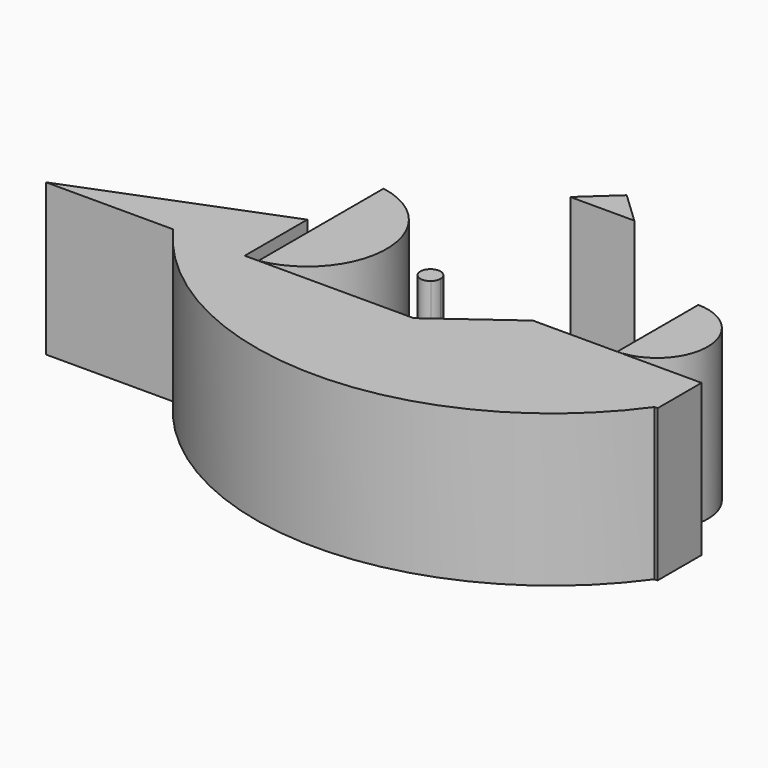
from build123d import *

# Parameters (mm, degrees)
F1_DEPTH = 40.894


with BuildPart() as f1:
    # F0 (on Top) → F1 (new body)
    with BuildSketch(Plane.XY):
        with BuildLine():
            Line((-45.5752416326, 0), (-64.9001970887, 0))
            ThreePointArc((-64.9001970887, 0), (0, -33.2273267029), (64.9001970887, 0))
            Line((64.9001970887, 0), (64.6123960614, 0))
            Line((64.6123960614, 0), (64.0367791057, 0))
            Line((64.0367791057, 0), (20.290305838, 0))
            Line((20.290305838, 0), (0, 0))
            Line((0, 0), (-11.0560013884, 0))
            Line((-11.0560013884, 0), (-41.8757386506, 0))
            Line((-41.8757386506, 0), (-45.5752416326, 0))
        make_face()
        Polygon((64.6123960614, 0), (64.9001970887, 0), (65.7636150718, 0), (65.7636150718, 14.8219969124), (43.0269604549, 14.8219969124), (20.290305838, 14.8219969124), (20.290305838, 0), (64.0367791057, 0), align=None)
        Polygon((-99.1490855813, 0), (-64.9001970887, 0), (-45.5752416326, 0), (-45.5752416326, 21.0817717016), align=None)
        Polygon((5.3224623598, 3.8880399977), (20.290305838, 0), (10.0761194493, 7.3605697499), align=None)
        Polygon((5.3224623598, 3.8880399977), (0, 0), (20.290305838, 0), align=None)
        Polygon((64.6123960614, 0), (64.9001970887, 0), (65.7636150718, 0), (65.7636150718, 14.8219969124), (43.0269604549, 14.8219969124), (20.290305838, 14.8219969124), (20.290305838, 0), (64.0367791057, 0), align=None)
        Polygon((16.0685388584, 11.7380110111), (20.290305838, 0), (20.290305838, 14.8219969124), align=None)
        Polygon((10.0761194493, 7.3605697499), (20.290305838, 0), (16.0685388584, 11.7380110111), align=None)
    extrude(amount=F1_DEPTH)


with BuildPart() as f1b:
    # F0 (on Top) → F1, piece 2 (new body)
    with BuildSketch(Plane.XY):
        with BuildLine():
            Line((-41.8757386506, 42.1635434031), (-41.8757386506, 0))
            ThreePointArc((-41.8757386506, 0), (-24.1713302987, 21.0817717016), (-41.8757386506, 42.1635434031))
        make_face()
    extrude(amount=F1_DEPTH)


with BuildPart() as f1c:
    # F0 (on Top) → F1, piece 3 (new body)
    with BuildSketch(Plane.XY):
        Polygon((-8.7780756876, 63.7489780784), (0, 63.7489780784), (8.4902700037, 63.7489780784), (0, 71.8075409532), align=None)
    extrude(amount=F1_DEPTH)


with BuildPart() as f1d:
    # F0 (on Top) → F1, piece 4 (new body)
    with BuildSketch(Plane.XY):
        with BuildLine():
            Line((43.0269604549, 42.1635434031), (43.0269604549, 14.8219969124))
            ThreePointArc((43.0269604549, 14.8219969124), (56.4873108865, 28.4927701578), (43.0269604549, 42.1635434031))
        make_face()
    extrude(amount=F1_DEPTH)


with BuildPart() as f1e:
    # F0 (on Top) → F1, piece 5 (new body)
    with BuildSketch(Plane.XY):
        with BuildLine():
            ThreePointArc((-6.7990865358, 17.5405594115), (-9.5176490349, 20.2591219106), (-12.2362115341, 17.5405594115))
            ThreePointArc((-12.2362115341, 17.5405594115), (-10.6316712171, 15.0607334823), (-7.7121024571, 15.5081756837))
            ThreePointArc((-7.7121024571, 15.5081756837), (-7.0378231057, 16.4265372293), (-6.7990865358, 17.5405594115))
        make_face()
    extrude(amount=F1_DEPTH)


solid = Compound([f1.part, f1b.part, f1c.part, f1d.part, f1e.part])
